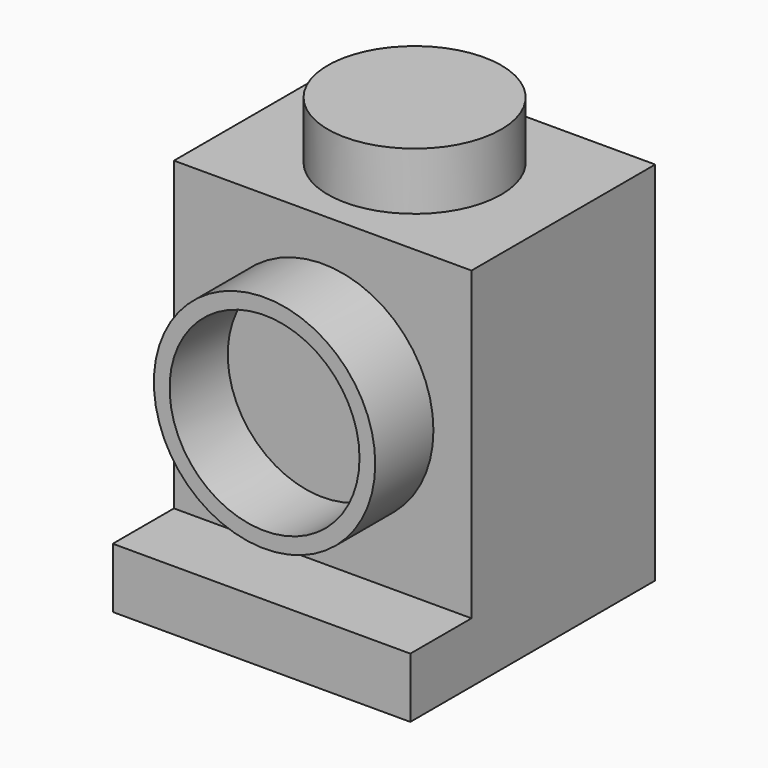
from build123d import *

# Parameters (mm, degrees)
F0_W     = 7.7755046077
F0_H     = 1.5709503787
F1_DEPTH = 8
F2_W     = 7.7755046077
F2_H     = 6.0012028553
F3_DEPTH = 8
F4_R     = 2.8924366319
F4_R_2   = 2.4816180031
F5_DEPTH = 1.9
F6_R     = 2.2667202486
F7_DEPTH = 1.5


with BuildPart() as f1:
    # F0 (on Front) → F1 (new body)
    with BuildSketch(Plane.XZ):
        with Locations((3.8877523039, 0.7854751893)):
            Rectangle(F0_W, F0_H)
    extrude(amount=F1_DEPTH)

    # F2 (on face) → F3 (join)
    with BuildSketch(Plane.XY.offset(1.5709503787)):
        with Locations((3.8877523039, -3.0006014276)):
            Rectangle(F2_W, F2_H)
    extrude(amount=F3_DEPTH)

    # F4 (on face) → F5 (join)
    with BuildSketch(Plane.XZ.offset(6.0012028553)):
        with Locations((3.8877523039, 5.5709503787)):
            Circle(F4_R)
        with Locations((3.8877523039, 5.5709503787)):
            Circle(F4_R_2, mode=Mode.SUBTRACT)
    extrude(amount=F5_DEPTH)

    # F6 (on face) → F7 (join)
    with BuildSketch(Plane.XY.offset(9.5709503787)):
        with Locations((3.8877523039, -3.0006014276)):
            Circle(F6_R)
    extrude(amount=F7_DEPTH)


solid = f1.part
